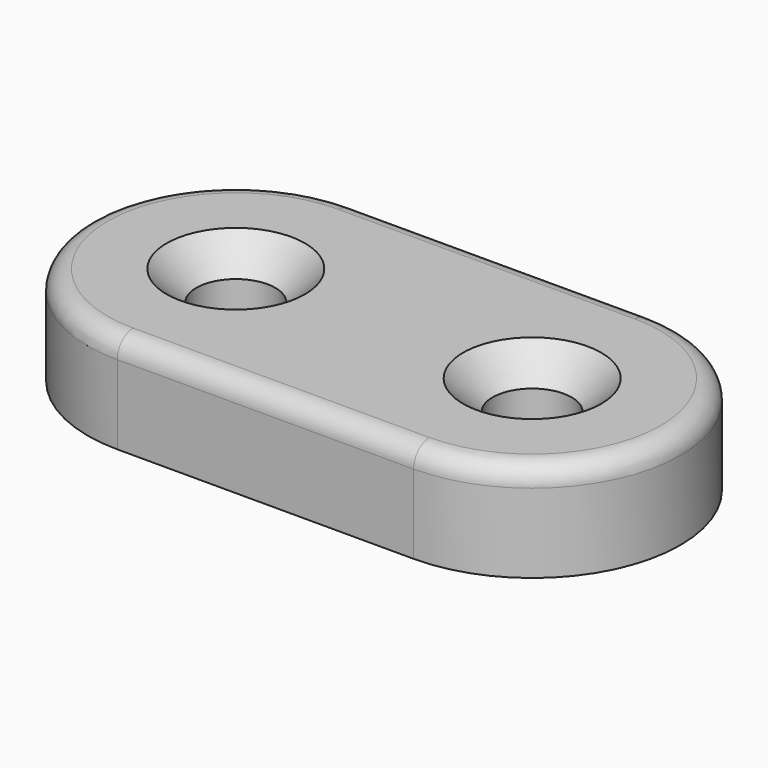
from build123d import *

# Parameters (mm, degrees)
SKETCH_R     = 2
PAD_DEPTH    = 5
CHAMFER_SIZE = 1.5
FILLET_R     = 1


with BuildPart() as part:
    # Sketch → Pad (new body)
    with BuildSketch(Plane.XY):
        with BuildLine():
            ThreePointArc((0, 7.5), (-7.5, 0), (0, -7.5))
            Line((0, -7.5), (15, -7.5))
            ThreePointArc((15, -7.5), (22.5, 0), (15, 7.5))
            Line((0, 7.5), (15, 7.5))
        make_face()
        Circle(SKETCH_R, mode=Mode.SUBTRACT)
        with Locations((15, 0)):
            Circle(SKETCH_R, mode=Mode.SUBTRACT)
    extrude(amount=PAD_DEPTH)

    # Chamfer
    chamfer_edges = [part.edges().sort_by_distance(p)[0] for p in [
        (-2, 0, 5),
        (13, 0, 5),
    ]]
    chamfer(chamfer_edges, length=CHAMFER_SIZE)

    # Fillet
    fillet_edges = [part.edges().sort_by_distance(p)[0] for p in [
        (7.5, -7.5, 5),
    ]]
    fillet(fillet_edges, radius=FILLET_R)


solid = part.part
